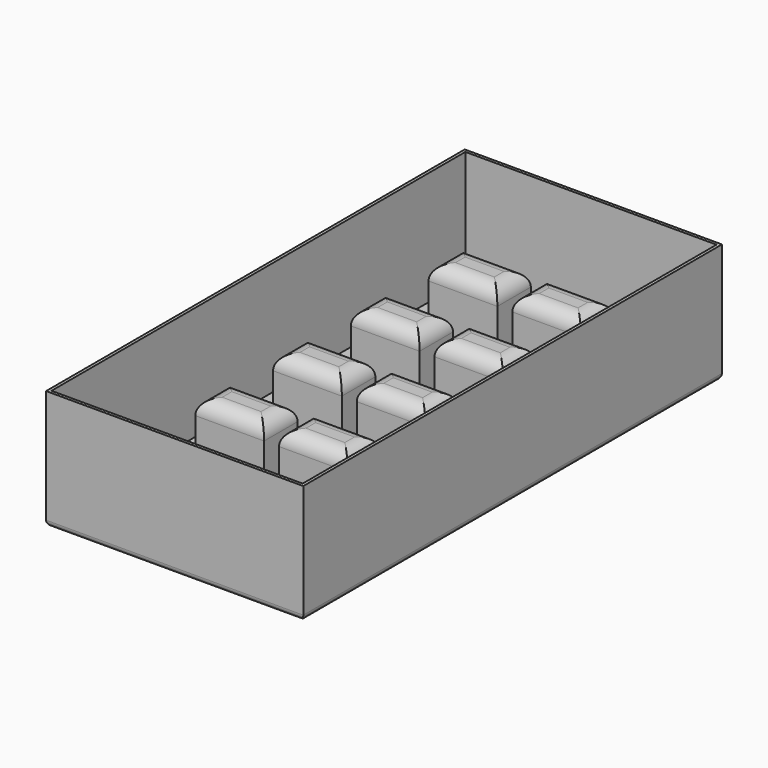
from build123d import *

# Parameters (mm, degrees)
SKETCH015_W                     = 86
SKETCH015_H                     = 175
PAD007_DEPTH                    = 40
SKETCH016_W                     = 84
SKETCH016_H                     = 173
POCKET007_DEPTH                 = 38
SKETCH017_W                     = 23
SKETCH017_H                     = 14
PAD008_DEPTH                    = 20
SKETCH017_LINEARPATTERN003_2_W  = 23
SKETCH017_LINEARPATTERN003_2_H  = 14
PAD008_LINEARPATTERN003_2_DEPTH = 20
SKETCH017_LINEARPATTERN003_3_W  = 23
SKETCH017_LINEARPATTERN003_3_H  = 14
PAD008_LINEARPATTERN003_3_DEPTH = 20
SKETCH017_LINEARPATTERN003_4_W  = 23
SKETCH017_LINEARPATTERN003_4_H  = 14
PAD008_LINEARPATTERN003_4_DEPTH = 20
SKETCH017_LINEARPATTERN003_5_W  = 23
SKETCH017_LINEARPATTERN003_5_H  = 14
PAD008_LINEARPATTERN003_5_DEPTH = 20
LINEARPATTERN004_COUNT          = 2
LINEARPATTERN004_PITCH          = 28
FILLET008_R                     = 5
FILLET009_R                     = 2


with BuildPart() as part:
    # Sketch015 → Pad007 (new body)
    with BuildSketch(Plane.XY):
        Rectangle(SKETCH015_W, SKETCH015_H)
    extrude(amount=PAD007_DEPTH)

    # Sketch016 (on DatumPlane) → Pocket007 (cut)
    with BuildSketch(Plane.XY.offset(40)):
        Rectangle(SKETCH016_W, SKETCH016_H)
    extrude(amount=-POCKET007_DEPTH, mode=Mode.SUBTRACT)

    # Sketch017 (on DatumPlane) → Pad008 (join)
    with BuildSketch(Plane(origin=(-20, 65, 2), x_dir=(1, 0, 0), z_dir=(0, 0, 1))):
        Rectangle(SKETCH017_W, SKETCH017_H)
    pad008 = extrude(amount=PAD008_DEPTH)

    # Sketch017 LinearPattern003 2 → Pad008 LinearPattern003 2 (add)
    with BuildSketch(Plane(origin=(-20, 32.5, 2), x_dir=(1, 0, 0), z_dir=(0, 0, 1))):
        Rectangle(SKETCH017_LINEARPATTERN003_2_W, SKETCH017_LINEARPATTERN003_2_H)
    pad008_linearpattern003_2 = extrude(amount=PAD008_LINEARPATTERN003_2_DEPTH)

    # Sketch017 LinearPattern003 3 → Pad008 LinearPattern003 3 (add)
    with BuildSketch(Plane(origin=(-20, 0, 2), x_dir=(1, 0, 0), z_dir=(0, 0, 1))):
        Rectangle(SKETCH017_LINEARPATTERN003_3_W, SKETCH017_LINEARPATTERN003_3_H)
    pad008_linearpattern003_3 = extrude(amount=PAD008_LINEARPATTERN003_3_DEPTH)

    # Sketch017 LinearPattern003 4 → Pad008 LinearPattern003 4 (add)
    with BuildSketch(Plane(origin=(-20, -32.5, 2), x_dir=(1, 0, 0), z_dir=(0, 0, 1))):
        Rectangle(SKETCH017_LINEARPATTERN003_4_W, SKETCH017_LINEARPATTERN003_4_H)
    pad008_linearpattern003_4 = extrude(amount=PAD008_LINEARPATTERN003_4_DEPTH)

    # Sketch017 LinearPattern003 5 → Pad008 LinearPattern003 5 (add)
    with BuildSketch(Plane(origin=(-20, -65, 2), x_dir=(1, 0, 0), z_dir=(0, 0, 1))):
        Rectangle(SKETCH017_LINEARPATTERN003_5_W, SKETCH017_LINEARPATTERN003_5_H)
    pad008_linearpattern003_5 = extrude(amount=PAD008_LINEARPATTERN003_5_DEPTH)

    # LinearPattern004: Pad008, Pad008 LinearPattern003 2, Pad008 LinearPattern003 3, Pad008 LinearPattern003 4, Pad008 LinearPattern003 5 ×2
    with Locations(*[(i * LINEARPATTERN004_PITCH, 0, 0) for i in range(1, LINEARPATTERN004_COUNT)]):
        add(pad008)
        add(pad008_linearpattern003_2)
        add(pad008_linearpattern003_3)
        add(pad008_linearpattern003_4)
        add(pad008_linearpattern003_5)

    # Fillet008
    fillet008_edges = [part.edges().sort_by_distance(p)[0] for p in [
        (-20, -25.5, 22),
        (-8.5, -32.5, 22),
        (-20, -39.5, 22),
        (-31.5, -32.5, 22),
        (-20, -58, 22),
        (-8.5, -65, 22),
        (-20, -72, 22),
        (-31.5, -65, 22),
        (8, -58, 22),
        (19.5, -65, 22),
        (8, -72, 22),
        (-3.5, -65, 22),
        (8, -25.5, 22),
        (19.5, -32.5, 22),
        (8, -39.5, 22),
        (-3.5, -32.5, 22),
        (-20, 7, 22),
        (-8.5, 0, 22),
        (-20, -7, 22),
        (-31.5, 0, 22),
        (8, 7, 22),
        (19.5, 0, 22),
        (8, -7, 22),
        (-3.5, 0, 22),
        (8, 39.5, 22),
        (19.5, 32.5, 22),
        (8, 25.5, 22),
        (-3.5, 32.5, 22),
        (-20, 72, 22),
        (-8.5, 65, 22),
        (-20, 58, 22),
        (-31.5, 65, 22),
        (8, 72, 22),
        (19.5, 65, 22),
        (8, 58, 22),
        (-3.5, 65, 22),
        (-20, 39.5, 22),
        (-8.5, 32.5, 22),
        (-20, 25.5, 22),
        (-31.5, 32.5, 22),
    ]]
    fillet(fillet008_edges, radius=FILLET008_R)

    # Fillet009
    fillet009_edges = [part.edges().sort_by_distance(p)[0] for p in [
        (0, 87.5, 0),
        (43, 0, 0),
        (0, -87.5, 0),
        (-43, 0, 0),
    ]]
    fillet(fillet009_edges, radius=FILLET009_R)


with BuildPart() as part_1:
    # Body006 placement: moved
    add(part.part.moved(Location((-51, -51, 0))))


solid = part_1.part
